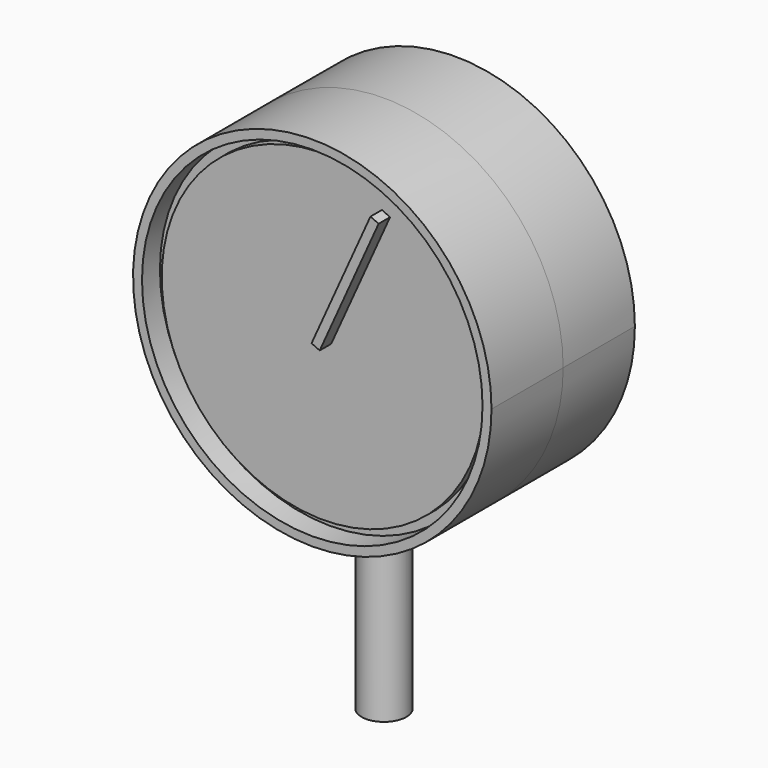
from build123d import *

# Parameters (mm, degrees)
F1_R      = 3.175
F2_DEPTH  = 38.1
F3_DEPTH  = 12.7
F4_R      = 24.13
F5_DEPTH  = 3.175
F6_R      = 24.13
F7_DEPTH  = 3.175
F8_R      = 22.86
F9_DEPTH  = 1.27
F11_DEPTH = 2.032


with BuildPart() as f2:
    # F1 (on Top) → F2 (new body)
    with BuildSketch(Plane.XY):
        Circle(F1_R)
    extrude(amount=F2_DEPTH)

    # F0 (on Front) → F3 (join, symmetric)
    with BuildSketch(Plane.XZ):
        with BuildLine():
            ThreePointArc((0, 25.4), (17.9605122421, 32.8394877579), (25.4, 50.8))
            ThreePointArc((25.4, 50.8), (-17.9605122421, 68.7605122421), (0, 25.4))
        make_face()
    extrude(amount=F3_DEPTH, both=True)

    # F4 (on face) → F5 (join)
    with BuildSketch(Plane.XZ.offset(12.7)):
        with Locations((0, 50.8)):
            Circle(F4_R)
    extrude(amount=-F5_DEPTH)

    # F6 (on face) → F7 (cut)
    with BuildSketch(Plane.XZ.offset(12.7)):
        with Locations((0, 50.8)):
            Circle(F6_R)
    extrude(amount=-F7_DEPTH, mode=Mode.SUBTRACT)


with BuildPart() as f9:
    # F8 (on face) → F9 (new body)
    with BuildSketch(Plane.XZ.offset(9.525)):
        with Locations((0, 50.8)):
            Circle(F8_R)
    extrude(amount=F9_DEPTH)


with BuildPart() as f11:
    # F10 (on face) → F11 (new body)
    with BuildSketch(Plane.XZ.offset(10.795)):
        Polygon((8.3469611164, 69.326484829), (0, 50.8), (1.1579053018, 50.2783149302), (9.5048664182, 68.8047997593), align=None)
    extrude(amount=F11_DEPTH)


solid = Compound([f2.part, f9.part, f11.part])
